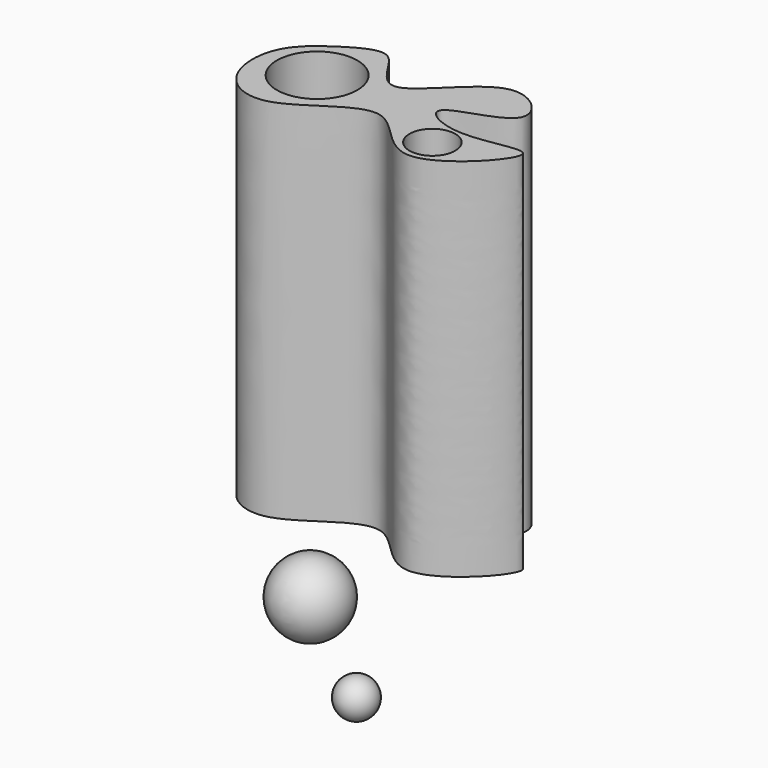
from build123d import *

# Parameters (mm, degrees)
F3_DEPTH = 100
F4_R     = 11
F4_R_2   = 6.25
F5_DEPTH = 100


with BuildPart() as f1:
    # F0 (on Right) → F1 (revolve)
    with BuildSketch(Plane.YZ):
        with BuildLine():
            Line((0, -10), (0, 10))
            ThreePointArc((0, 10), (-10, 0), (0, -10))
        make_face()
    revolve(axis=Axis((0, 0, 6.4427442849), (0, 0, -1)))


with BuildPart() as f3:
    # F2 (on Top) → F3 (new body)
    with BuildSketch(Plane.XY):
        with BuildLine():
            add(Edge.make_bspline(
                [(-29.7328872038, 23.3966463773), (-22.529001354, 25.5560472556), (-6.7313751757, 42.9539370795), (6.619914671, 11.6628631396), (37.6216950286, 45.0619118049), (10.8415331628, 34.3243947595), (-6.3445255851, 44.6623226369), (24.7804963702, 48.3547595056), (5.1010722664, 68.3440827055), (-13.4525492451, 36.6438878977), (-21.2021205286, 55.4618068972), (-26.8463877411, 56.9286352056), (-36.0901607811, 51.5617690307), (-45.7478657944, 43.5119875159), (-45.0437053029, 26.4630032271), (-35.1912132586, 21.7604857937), (-29.7328872038, 23.3966463773)],
                knots=[0, 0, 0, 0, 0.0899826098, 0.172804648, 0.2629656282, 0.338499879, 0.399179982, 0.4762330695, 0.5415752567, 0.6338993337, 0.6980667124, 0.7394314301, 0.7976493599, 0.8621084191, 0.9318209042, 1, 1, 1, 1], degree=3))
        make_face()
    extrude(amount=F3_DEPTH)

    # F4 (on face) → F5 (cut)
    with BuildSketch(Plane.XY.offset(100)):
        with Locations((-29.5023545623, 39.2267629504)):
            Circle(F4_R)
        with Locations((9.0665174648, 30.3888339549)):
            Circle(F4_R_2)
    extrude(amount=-F5_DEPTH, mode=Mode.SUBTRACT)


with BuildPart() as f7:
    # F6 (on Top) → F7 (revolve)
    with BuildSketch(Plane.XY):
        with BuildLine():
            Line((36.6866517541, -35.3397322384), (36.6866517541, -24.8397322384))
            ThreePointArc((36.6866517541, -24.8397322384), (31.4366517541, -30.0897322384), (36.6866517541, -35.3397322384))
        make_face()
    revolve(axis=Axis((36.6866517541, -32.009894494, 0), (0, 1, 0)))


solid = Compound([f1.part, f3.part, f7.part])
